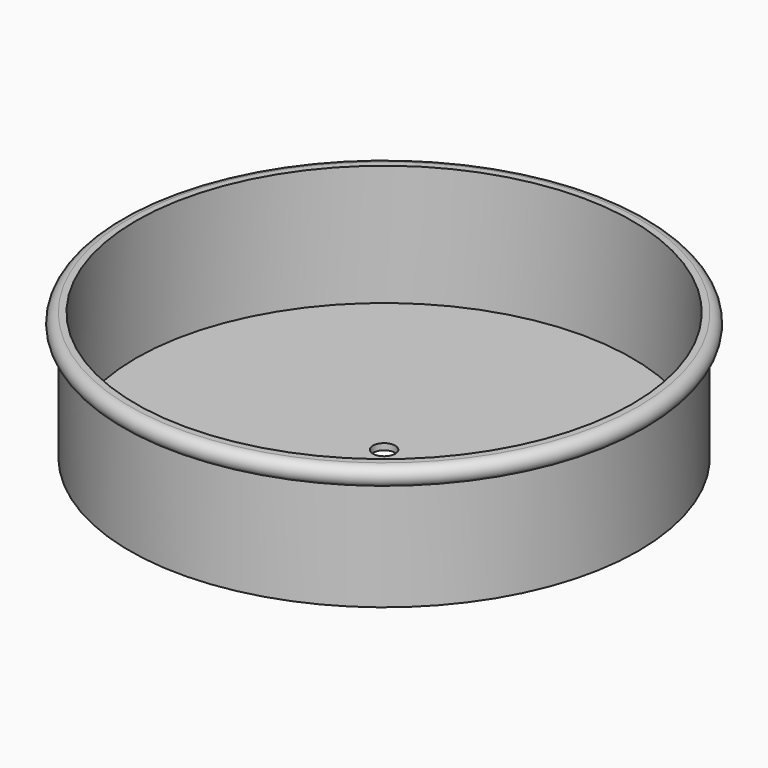
from build123d import *

# Parameters (mm, degrees)
F0_R     = 101.6
F1_DEPTH = 50.8
F2_T     = -2.54
F6_D     = 8.89


with BuildPart() as f1:
    # F0 (on Top) → F1 (new body)
    with BuildSketch(Plane.XY):
        Circle(F0_R)
    extrude(amount=F1_DEPTH)

    # F2
    f2_openings = [f1.faces().sort_by_distance(p)[0] for p in [
        (0, 0, 50.8),
    ]]
    offset(amount=F2_T, openings=f2_openings)

    # F6 (through all)
    with Locations(Plane.XY.offset(2.54)):
        with Locations((0, 0)):
            Hole(F6_D / 2)


with BuildPart() as f4:
    # F3 (on Front) → F4 (revolve)
    with BuildSketch(Plane.XZ):
        with BuildLine():
            Line((101.6, 50.8), (101.6, 43.18))
            ThreePointArc((101.6, 43.18), (105.41, 46.99), (101.6, 50.8))
        make_face()
    revolve(axis=Axis((0, 0, 25.4), (0, 0, 1)))


solid = Compound([f1.part, f4.part])
